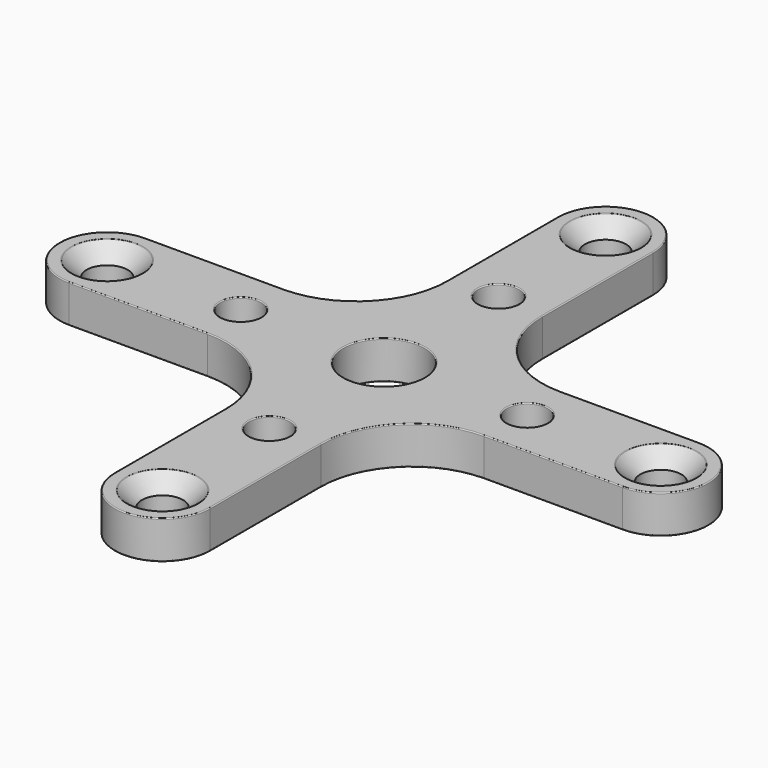
from build123d import *

# Parameters (mm, degrees)
F0_R     = 2.15
F0_R_2   = 4.25
F1_DEPTH = 4
F2_SIZE  = 1.6
F3_SIZE  = 1.6
F4_R     = 0.1
F5_R     = 0.1


with BuildPart() as f1:
    # F0 (on Top) → F1 (new body)
    with BuildSketch(Plane.XY):
        with BuildLine():
            Line((5, 14.485281), (5, 29))
            ThreePointArc((5, 29), (0, 34), (-5, 29))
            Line((-5, 29), (-5, 14.485281))
            ThreePointArc((-5, 14.485281), (-7.778175, 7.778175), (-14.485282, 5))
            Line((-14.485282, 5), (-29, 5))
            ThreePointArc((-29, 5), (-34, 0), (-29, -5))
            Line((-29, -5), (-14.485281, -5))
            ThreePointArc((-14.485281, -5), (-7.778175, -7.778175), (-5, -14.485281))
            Line((-5, -14.485281), (-5, -29))
            ThreePointArc((-5, -29), (0, -34), (5, -29))
            Line((5, -29), (5, -14.485281))
            ThreePointArc((5, -14.485281), (7.778175, -7.778175), (14.485281, -5))
            Line((14.485281, -5), (29, -5))
            ThreePointArc((29, -5), (34, 0), (29, 5))
            Line((29, 5), (14.485282, 5))
            ThreePointArc((14.485282, 5), (7.778175, 7.778175), (5, 14.485281))
        make_face()
        with Locations((-29, 0)):
            Circle(F0_R, mode=Mode.SUBTRACT)
        with Locations((0, -29)):
            Circle(F0_R, mode=Mode.SUBTRACT)
        with Locations((0, -15)):
            Circle(F0_R, mode=Mode.SUBTRACT)
        with Locations((29, 0)):
            Circle(F0_R, mode=Mode.SUBTRACT)
        with Locations((-15, 0)):
            Circle(F0_R, mode=Mode.SUBTRACT)
        Circle(F0_R_2, mode=Mode.SUBTRACT)
        with Locations((15, 0)):
            Circle(F0_R, mode=Mode.SUBTRACT)
        with Locations((0, 15)):
            Circle(F0_R, mode=Mode.SUBTRACT)
        with Locations((0, 29)):
            Circle(F0_R, mode=Mode.SUBTRACT)
    extrude(amount=F1_DEPTH)

    # F2
    f2_edges = [f1.edges().sort_by_distance(p)[0] for p in [
        (-2.15, 29, 4),
        (26.85, 0, 4),
        (-2.15, -29, 4),
        (-31.15, 0, 4),
    ]]
    chamfer(f2_edges, length=F2_SIZE)

    # F3
    f3_edges = [f1.edges().sort_by_distance(p)[0] for p in [
        (-2.15, -15, 0),
        (-17.15, 0, 0),
        (-2.15, 15, 0),
        (12.85, 0, 0),
    ]]
    chamfer(f3_edges, length=F3_SIZE)

    # F4
    f4_edges = [f1.edges().sort_by_distance(p)[0] for p in [
        (-3.75, 29, 4),
        (-7.778175, -7.778175, 4),
        (-5, -21.742641, 4),
        (0, -34, 4),
        (5, -21.742641, 4),
        (7.778175, -7.778175, 4),
        (21.742641, -5, 4),
        (34, 0, 4),
        (21.742641, 5, 4),
        (7.778175, 7.778175, 4),
        (5, 21.742641, 4),
        (0, 34, 4),
        (-5, 21.742641, 4),
        (-7.778175, 7.778175, 4),
        (-21.742641, 5, 4),
        (-34, 0, 4),
        (-21.742641, -5, 4),
        (-2.15, -15, 4),
        (-17.15, 0, 4),
        (-4.25, 0, 4),
        (12.85, 0, 4),
        (-2.15, 15, 4),
        (25.25, 0, 4),
        (-3.75, -29, 4),
        (-32.75, 0, 4),
    ]]
    fillet(f4_edges, radius=F4_R)

    # F5
    f5_edges = [f1.edges().sort_by_distance(p)[0] for p in [
        (-3.75, -15, 0),
        (-7.778175, -7.778175, 0),
        (-5, -21.742641, 0),
        (0, -34, 0),
        (5, -21.742641, 0),
        (7.778175, -7.778175, 0),
        (21.742641, -5, 0),
        (34, 0, 0),
        (21.742641, 5, 0),
        (7.778175, 7.778175, 0),
        (5, 21.742641, 0),
        (0, 34, 0),
        (-5, 21.742641, 0),
        (-7.778175, 7.778175, 0),
        (-21.742641, 5, 0),
        (-34, 0, 0),
        (-21.742641, -5, 0),
        (-31.15, 0, 0),
        (-2.15, -29, 0),
        (26.85, 0, 0),
        (-4.25, 0, 0),
        (-2.15, 29, 0),
        (-18.75, 0, 0),
        (-3.75, 15, 0),
        (11.25, 0, 0),
    ]]
    fillet(f5_edges, radius=F5_R)


solid = f1.part
